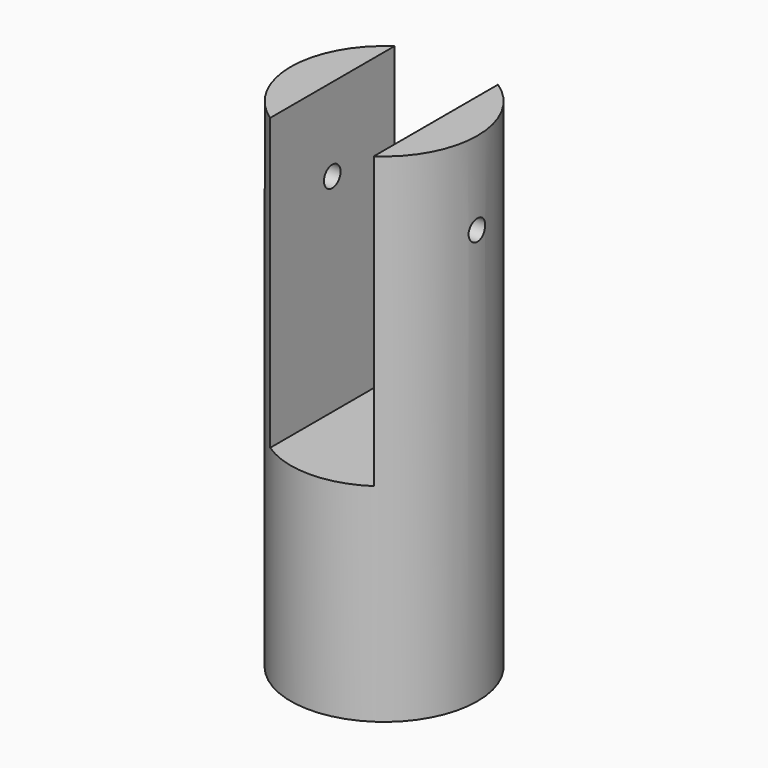
from build123d import *

# Parameters (mm, degrees)
F0_R     = 22.5
F1_DEPTH = 120
F3_DEPTH = 70
F4_R     = 20
F5_DEPTH = 35
F6_R     = 2.5
F7_DEPTH = 50


with BuildPart() as f1:
    # F0 (on Top) → F1 (new body)
    with BuildSketch(Plane.XY):
        Circle(F0_R)
    extrude(amount=F1_DEPTH)

    # F2 (on face) → F3 (cut)
    with BuildSketch(Plane.XY.offset(120)):
        with BuildLine():
            ThreePointArc((12.5, 18.708287), (0, 22.5), (-12.5, 18.708287))
            Line((-12.5, 18.708287), (-12.5, -18.708287))
            ThreePointArc((-12.5, -18.708287), (0, -22.5), (12.5, -18.708287))
            Line((12.5, -18.708287), (12.5, 18.708287))
        make_face()
    extrude(amount=-F3_DEPTH, mode=Mode.SUBTRACT)

    # F4 (on Top) → F5 (cut)
    with BuildSketch(Plane.XY):
        Circle(F4_R)
    extrude(amount=F5_DEPTH, mode=Mode.SUBTRACT)

    # F6 (on Right) → F7 (cut, symmetric)
    with BuildSketch(Plane.YZ):
        with Locations((0, 100)):
            Circle(F6_R)
    extrude(amount=F7_DEPTH, both=True, mode=Mode.SUBTRACT)


solid = f1.part
